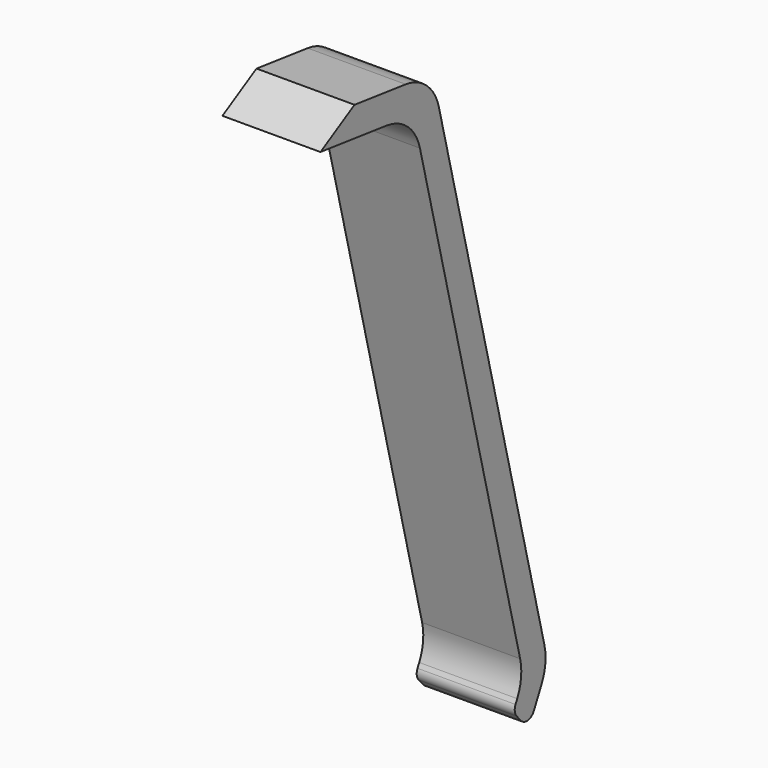
from build123d import *

# Parameters (mm, degrees)
F1_DEPTH = 2.54
F2_R     = 1.27
F3_R     = 0.254
F4_R     = 1.27
F5_R     = 0.254
F6_R     = 1.27
F7_R     = 1.27


with BuildPart() as f1:
    # F0 (on Right) → F1 (new body)
    with BuildSketch(Plane.YZ):
        Polygon((-29.258431, 13.248995), (-30.3611, 12.618899), (-27.350505, 12.242574), (-23.780038, -2.022478), (-24.11806, -2.703207), (-23.618102, -3.27826), (-22.994532, -2.022478), (-26.738045, 12.933947), align=None)
    extrude(amount=F1_DEPTH)

    # F2
    f2_edges = [f1.edges().sort_by_distance(p)[0] for p in [
        (1.27, -22.994532, -2.022478),
    ]]
    fillet(f2_edges, radius=F2_R)

    # F3
    f3_edges = [f1.edges().sort_by_distance(p)[0] for p in [
        (1.27, -23.618102, -3.27826),
    ]]
    fillet(f3_edges, radius=F3_R)

    # F4
    f4_edges = [f1.edges().sort_by_distance(p)[0] for p in [
        (1.27, -23.780038, -2.022478),
    ]]
    fillet(f4_edges, radius=F4_R)

    # F5
    f5_edges = [f1.edges().sort_by_distance(p)[0] for p in [
        (1.27, -24.11806, -2.703207),
    ]]
    fillet(f5_edges, radius=F5_R)

    # F6
    f6_edges = [f1.edges().sort_by_distance(p)[0] for p in [
        (1.27, -26.738045, 12.933947),
    ]]
    fillet(f6_edges, radius=F6_R)

    # F7
    f7_edges = [f1.edges().sort_by_distance(p)[0] for p in [
        (1.27, -27.350505, 12.242574),
    ]]
    fillet(f7_edges, radius=F7_R)


solid = f1.part
